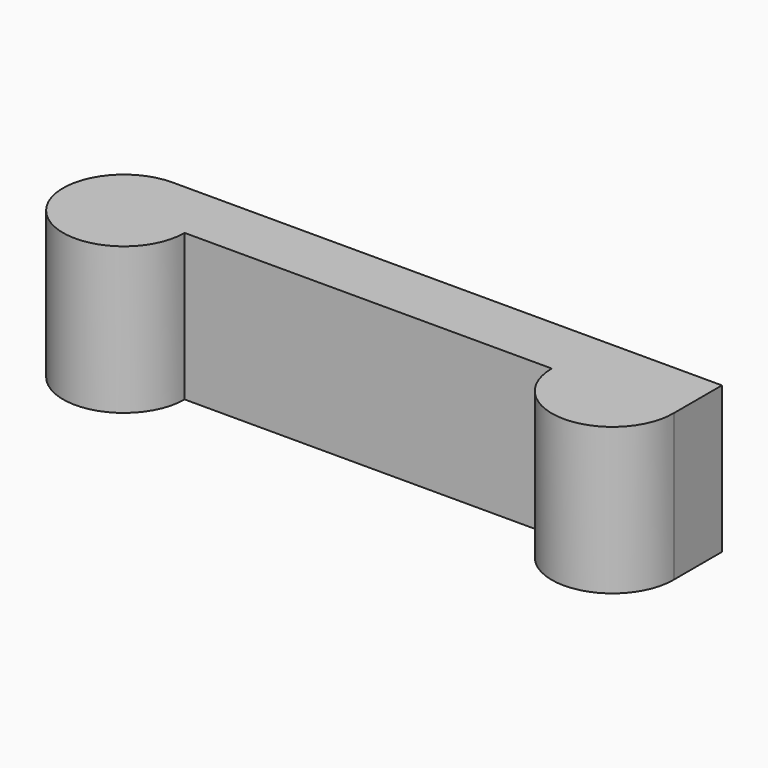
from build123d import *

# Parameters (mm, degrees)
F1_DEPTH = 20
F2_DEPTH = 20


with BuildPart() as f1:
    # F0 (on Top) → F1 (new body)
    with BuildSketch(Plane.XY):
        with BuildLine():
            ThreePointArc((0, 8.2872013066), (-5.8599362409, -5.8599362409), (8.2872013066, 0))
            Line((8.2872013066, 0), (0, 0))
            Line((0, 0), (0, 8.2872013066))
        make_face()
        with BuildLine():
            Line((0, 0), (8.2872013066, 0))
            ThreePointArc((8.2872013066, 0), (5.8599362409, 5.8599362409), (0, 8.2872013066))
            Line((0, 8.2872013066), (0, 0))
        make_face()
    extrude(amount=F1_DEPTH)

    # F0 (on Top) → F2 (join)
    with BuildSketch(Plane.XY):
        with BuildLine():
            Line((0, 0), (8.2872013066, 0))
            ThreePointArc((8.2872013066, 0), (5.8599362409, 5.8599362409), (0, 8.2872013066))
            Line((0, 8.2872013066), (0, 0))
        make_face()
        with BuildLine():
            ThreePointArc((0, 8.2872013066), (-5.8599362409, -5.8599362409), (8.2872013066, 0))
            Line((8.2872013066, 0), (0, 0))
            Line((0, 0), (0, 8.2872013066))
        make_face()
        with BuildLine():
            ThreePointArc((0, 8.2872013066), (5.8599362409, 5.8599362409), (8.2872013066, 0))
            Line((8.2872013066, 0), (58.3672424343, 0))
            ThreePointArc((58.3672424343, 0), (60.7945074999, 5.8599362409), (66.6544437408, 8.2872013066))
            Line((66.6544437408, 8.2872013066), (0, 8.2872013066))
        make_face()
        with BuildLine():
            ThreePointArc((66.6544437408, 8.2872013066), (60.7945074999, 5.8599362409), (58.3672424343, 0))
            Line((58.3672424343, 0), (74.9396476895, 0))
            Line((74.9396476895, 0), (74.9396476895, 0.1819368715))
            ThreePointArc((74.9396476895, 0.1819368715), (72.4496986108, 5.9239114179), (66.6544437408, 8.2872013066))
        make_face()
        with BuildLine():
            Line((74.9396476895, 0), (58.3672424343, 0))
            ThreePointArc((58.3672424343, 0), (66.6544437408, -8.2872013066), (74.9416450474, 0))
            ThreePointArc((74.9416450474, 0), (74.9411456929, 0.0909739175), (74.9396476895, 0.1819368715))
            Line((74.9396476895, 0.1819368715), (74.9396476895, 0))
        make_face()
        with BuildLine():
            Line((74.9396476895, 8.2872013066), (66.6544437408, 8.2872013066))
            ThreePointArc((66.6544437408, 8.2872013066), (72.4496986108, 5.9239114179), (74.9396476895, 0.1819368715))
            Line((74.9396476895, 0.1819368715), (74.9396476895, 8.2872013066))
        make_face()
    extrude(amount=F2_DEPTH)


solid = f1.part
